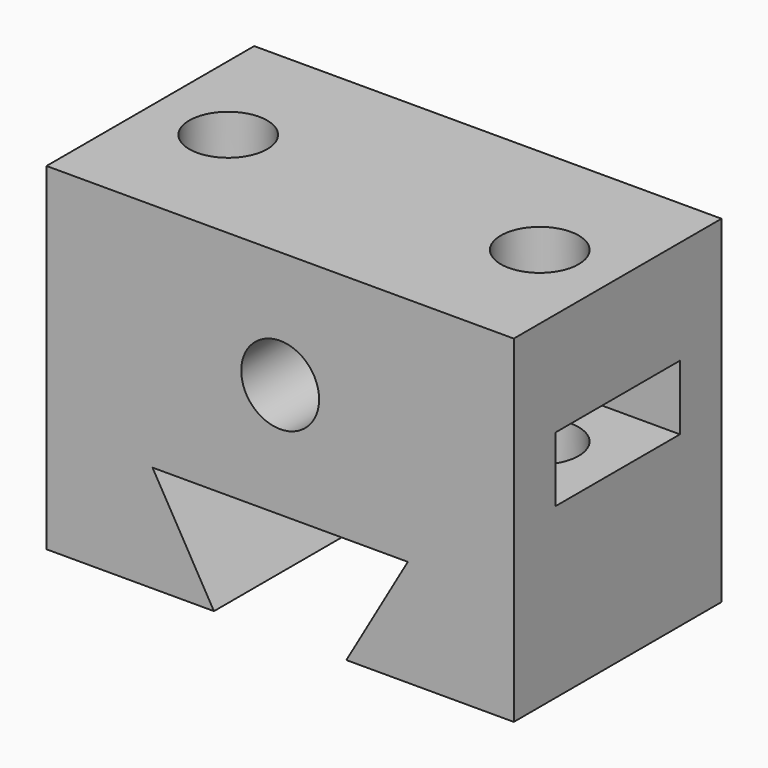
from build123d import *

# Parameters (mm, degrees)
SKETCH_W        = 18
SKETCH_H        = 10
PAD_DEPTH       = 13
SKETCH009_R     = 1.5
POCKET_DEPTH    = 4
POCKET001_DEPTH = 2.5
POCKET002_DEPTH = 10.001
SKETCH012_R     = 1.5
POCKET003_DEPTH = 10.001


with BuildPart() as part:
    # Sketch → Pad (new body)
    with BuildSketch(Plane.XY):
        with Locations((9, 5)):
            Rectangle(SKETCH_W, SKETCH_H)
    extrude(amount=PAD_DEPTH)

    # Sketch009 (on DatumPlane) → Pocket (cut, symmetric)
    with BuildSketch(Plane.XY.offset(9)):
        with Locations((3, 5)):
            Circle(SKETCH009_R)
        with Locations((15, 5)):
            Circle(SKETCH009_R)
    extrude(amount=POCKET_DEPTH, both=True, mode=Mode.SUBTRACT)

    # Sketch010 (on DatumPlane) → Pocket001 (cut)
    with BuildSketch(Plane.XY.offset(9)):
        Polygon((4.732051, 2), (6.464102, 5), (4.732051, 8), (1.267949, 8), (0, 8), (0, 2), (1.267949, 2), align=None)
        Polygon((16.732051, 8), (13.267949, 8), (11.535898, 5), (13.267949, 2), (16.732051, 2), (18, 2), (18, 8), align=None)
    extrude(amount=-POCKET001_DEPTH, mode=Mode.SUBTRACT)

    # Sketch011 → Pocket002 (cut, through all)
    with BuildSketch(Plane.XZ):
        Polygon((6.45, 0), (11.55, 0), (13.917136, 4.1), (4.082864, 4.1), align=None)
    extrude(amount=-POCKET002_DEPTH, mode=Mode.SUBTRACT)

    # Sketch012 → Pocket003 (cut, through all)
    with BuildSketch(Plane.XZ):
        with Locations((9, 8.5)):
            Circle(SKETCH012_R)
    extrude(amount=-POCKET003_DEPTH, mode=Mode.SUBTRACT)


solid = part.part
